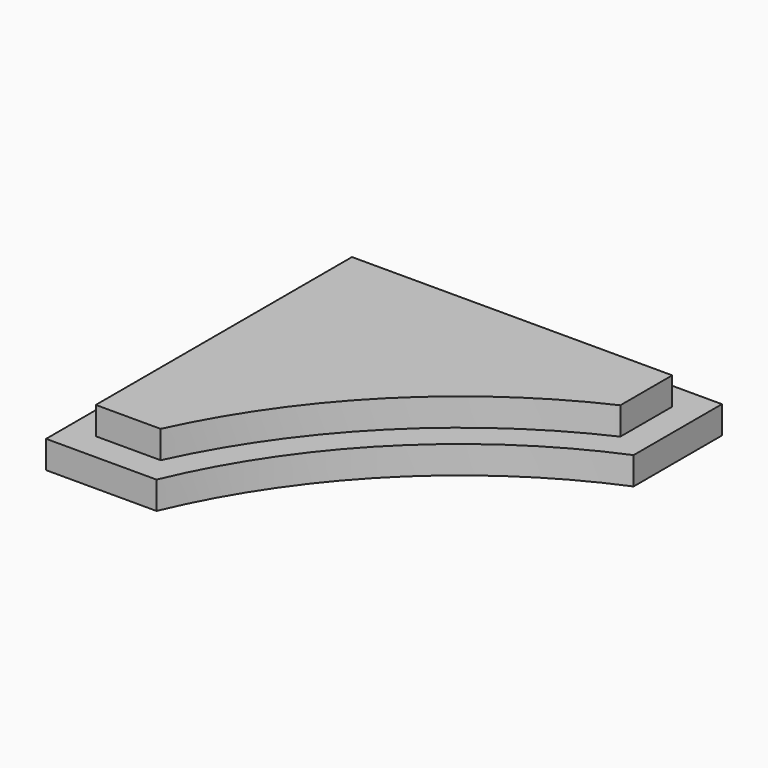
from build123d import *

# Parameters (mm, degrees)
F1_DEPTH = 12.7
F3_DEPTH = 6.35


with BuildPart() as f1:
    # F0 (on Top) → F1 (new body)
    with BuildSketch(Plane.XY):
        with BuildLine():
            Line((-44.3746231037, 130.7346231037), (-130.7346231037, 130.7346231037))
            Line((-130.7346231037, 130.7346231037), (-130.7346231037, 44.3746231037))
            Line((-130.7346231037, 44.3746231037), (-105.3346231037, 44.3746231037))
            ThreePointArc((-105.3346231037, 44.3746231037), (-80.8223050896, 80.8223050896), (-44.3746231037, 105.3346231037))
            Line((-44.3746231037, 105.3346231037), (-44.3746231037, 130.7346231037))
        make_face()
    extrude(amount=F1_DEPTH)

    # F2 (on face) → F3 (cut)
    with BuildSketch(Plane.XY.offset(12.7)):
        with BuildLine():
            Line((-130.7346231037, 44.3746231037), (-105.3346231037, 44.3746231037))
            ThreePointArc((-105.3346231037, 44.3746231037), (-80.8223050896, 80.8223050896), (-44.3746231037, 105.3346231037))
            Line((-44.3746231037, 105.3346231037), (-44.3746231037, 130.7346231037))
            Line((-44.3746231037, 130.7346231037), (-130.7346231037, 130.7346231037))
            Line((-130.7346231037, 130.7346231037), (-130.7346231037, 44.3746231037))
        make_face()
        with BuildLine():
            Line((-124.3846231037, 124.3846231037), (-50.7246231037, 124.3846231037))
            Line((-50.7246231037, 124.3846231037), (-50.7246231037, 109.4688773624))
            ThreePointArc((-50.7246231037, 109.4688773624), (-85.3124331502, 85.3124331502), (-109.4688773624, 50.7246231037))
            Line((-109.4688773624, 50.7246231037), (-124.3846231037, 50.7246231037))
            Line((-124.3846231037, 50.7246231037), (-124.3846231037, 124.3846231037))
        make_face(mode=Mode.SUBTRACT)
    extrude(amount=-F3_DEPTH, mode=Mode.SUBTRACT)


solid = f1.part
